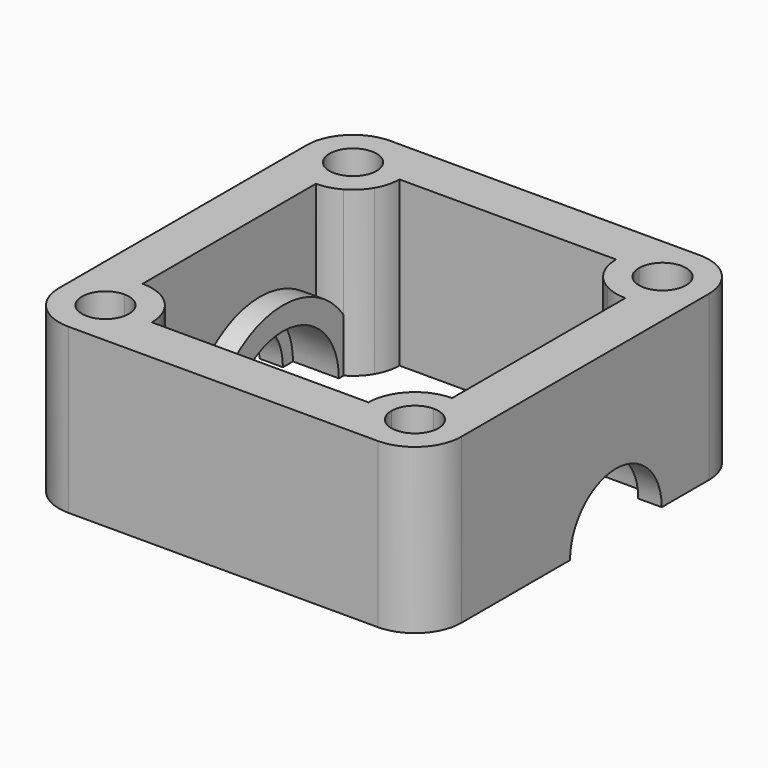
from build123d import *

# Parameters (mm, degrees)
F0_W     = 2
F0_H     = 6.1
F0_H_2   = 2
F0_W_2   = 2.05
F0_H_3   = 5
F1_DEPTH = 14.3
F2_ANGLE = 180
F3_ANGLE = 180


with BuildPart() as f1:
    # F0 (on Top) → F1 (new body)
    with BuildSketch(Plane.XY):
        with BuildLine():
            ThreePointArc((-13.5, 9.45), (-14.5342970466, 9.5842970466), (-15.5, 9.9782816694))
            Line((-15.5, 9.9782816694), (-15.5, 9.45))
            Line((-15.5, 9.45), (-13.5, 9.45))
        make_face()
        with BuildLine():
            ThreePointArc((-9.45, 13.5), (-10.6362175362, 16.3637824638), (-13.5, 17.55))
            ThreePointArc((-13.5, 17.55), (-16.3637824638, 16.3637824638), (-17.55, 13.5))
            ThreePointArc((-17.55, 13.5), (-17.0001785669, 11.4625383439), (-15.5, 9.9782816694))
            Line((-15.5, 9.9782816694), (-15.5, 11.45))
            Line((-15.5, 11.45), (-13.5, 11.45))
            ThreePointArc((-13.5, 11.45), (-14.9495689014, 14.9495689014), (-11.45, 13.5))
            Line((-11.45, 13.5), (-9.45, 13.5))
        make_face()
        with BuildLine():
            Line((-15.5, 11.45), (-15.5, 9.9782816694))
            ThreePointArc((-15.5, 9.9782816694), (-14.5342970466, 9.5842970466), (-13.5, 9.45))
            Line((-13.5, 9.45), (-13.5, 11.45))
            Line((-13.5, 11.45), (-15.5, 11.45))
        make_face()
        with BuildLine():
            ThreePointArc((-15.5, 9.9782816694), (-17.0001785669, 11.4625383439), (-17.55, 13.5))
            Line((-17.55, 13.5), (-17.55, 8.35))
            Line((-17.55, 8.35), (-15.5, 8.35))
            Line((-15.5, 8.35), (-15.5, 9.45))
            Line((-15.5, 9.45), (-15.5, 9.9782816694))
        make_face()
        with Locations((-14.5, 0.3)):
            Rectangle(F0_W, F0_H)
        with Locations((-14.5, -3.75)):
            Rectangle(F0_W, F0_H_2)
        with BuildLine():
            ThreePointArc((-13.5, -9.45), (-16.3637824638, -10.6362175362), (-17.55, -13.5))
            ThreePointArc((-17.55, -13.5), (-16.3637824638, -16.3637824638), (-13.5, -17.55))
            ThreePointArc((-13.5, -17.55), (-10.6362175362, -16.3637824638), (-9.45, -13.5))
            Line((-9.45, -13.5), (-11.45, -13.5))
            ThreePointArc((-11.45, -13.5), (-14.9495689014, -14.9495689014), (-13.5, -11.45))
            Line((-13.5, -11.45), (-13.5, -9.45))
        make_face()
        with BuildLine():
            Line((-13.5, -17.55), (13.5, -17.55))
            ThreePointArc((13.5, -17.55), (10.6362175362, -16.3637824638), (9.45, -13.5))
            Line((9.45, -13.5), (-9.45, -13.5))
            ThreePointArc((-9.45, -13.5), (-10.6362175362, -16.3637824638), (-13.5, -17.55))
        make_face()
        with BuildLine():
            ThreePointArc((-9.45, -13.5), (-10.6362175362, -10.6362175362), (-13.5, -9.45))
            Line((-13.5, -9.45), (-13.5, -11.45))
            ThreePointArc((-13.5, -11.45), (-12.0504310986, -12.0504310986), (-11.45, -13.5))
            Line((-11.45, -13.5), (-9.45, -13.5))
        make_face()
        with BuildLine():
            ThreePointArc((13.5, -17.55), (16.3637824638, -16.3637824638), (17.55, -13.5))
            ThreePointArc((17.55, -13.5), (16.3637824638, -10.6362175362), (13.5, -9.45))
            Line((13.5, -9.45), (13.5, -11.45))
            ThreePointArc((13.5, -11.45), (14.9495689014, -12.0504310986), (15.55, -13.5))
            ThreePointArc((15.55, -13.5), (13.5, -15.55), (11.45, -13.5))
            Line((11.45, -13.5), (9.45, -13.5))
            ThreePointArc((9.45, -13.5), (10.6362175362, -16.3637824638), (13.5, -17.55))
        make_face()
        with BuildLine():
            Line((13.5, -11.45), (13.5, -9.45))
            ThreePointArc((13.5, -9.45), (10.6362175362, -10.6362175362), (9.45, -13.5))
            Line((9.45, -13.5), (11.45, -13.5))
            ThreePointArc((11.45, -13.5), (12.0504310986, -12.0504310986), (13.5, -11.45))
        make_face()
        with BuildLine():
            Line((17.55, 8.35), (17.55, 13.5))
            ThreePointArc((17.55, 13.5), (17.0001785669, 11.4625383439), (15.5, 9.9782816694))
            Line((15.5, 9.9782816694), (15.5, 9.45))
            Line((15.5, 9.45), (15.5, 8.35))
            Line((15.5, 8.35), (17.55, 8.35))
        make_face()
        with Locations((14.5, -3.75)):
            Rectangle(F0_W, F0_H_2)
        with Locations((14.5, 0.3)):
            Rectangle(F0_W, F0_H)
        with BuildLine():
            Line((15.5, 9.45), (15.5, 9.9782816694))
            ThreePointArc((15.5, 9.9782816694), (14.5342970466, 9.5842970466), (13.5, 9.45))
            Line((13.5, 9.45), (15.5, 9.45))
        make_face()
        with BuildLine():
            ThreePointArc((13.5, 9.45), (14.5342970466, 9.5842970466), (15.5, 9.9782816694))
            Line((15.5, 9.9782816694), (15.5, 11.45))
            Line((15.5, 11.45), (13.5, 11.45))
            Line((13.5, 11.45), (13.5, 9.45))
        make_face()
        with BuildLine():
            ThreePointArc((11.5, 9.9782816694), (12.4657029534, 9.5842970466), (13.5, 9.45))
            Line((13.5, 9.45), (13.5, 11.45))
            Line((13.5, 11.45), (11.5, 11.45))
            Line((11.5, 11.45), (11.5, 9.9782816694))
        make_face()
        with BuildLine():
            Line((11.5, 11.45), (10.0071501607, 11.45))
            ThreePointArc((10.0071501607, 11.45), (10.6567028733, 10.6158776986), (11.5, 9.9782816694))
            Line((11.5, 9.9782816694), (11.5, 11.45))
        make_face()
        with BuildLine():
            Line((11.45, 13.5), (9.45, 13.5))
            ThreePointArc((9.45, 13.5), (9.5917688241, 12.4378187182), (10.0071501607, 11.45))
            Line((10.0071501607, 11.45), (11.5, 11.45))
            Line((11.5, 11.45), (13.5, 11.45))
            ThreePointArc((13.5, 11.45), (12.0504310986, 12.0504310986), (11.45, 13.5))
        make_face()
        with BuildLine():
            ThreePointArc((17.55, 13.5), (16.3637824638, 16.3637824638), (13.5, 17.55))
            ThreePointArc((13.5, 17.55), (10.6362175362, 16.3637824638), (9.45, 13.5))
            Line((9.45, 13.5), (11.45, 13.5))
            ThreePointArc((11.45, 13.5), (13.5, 15.55), (15.55, 13.5))
            ThreePointArc((15.55, 13.5), (14.9495689014, 12.0504310986), (13.5, 11.45))
            Line((13.5, 11.45), (15.5, 11.45))
            Line((15.5, 11.45), (15.5, 9.9782816694))
            ThreePointArc((15.5, 9.9782816694), (17.0001785669, 11.4625383439), (17.55, 13.5))
        make_face()
        with BuildLine():
            ThreePointArc((9.45, 13.5), (10.6362175362, 16.3637824638), (13.5, 17.55))
            Line((13.5, 17.55), (-13.5, 17.55))
            ThreePointArc((-13.5, 17.55), (-10.6362175362, 16.3637824638), (-9.45, 13.5))
            Line((-9.45, 13.5), (9.45, 13.5))
        make_face()
        with BuildLine():
            ThreePointArc((-10.0071501607, 11.45), (-9.5917688241, 12.4378187182), (-9.45, 13.5))
            Line((-9.45, 13.5), (-11.45, 13.5))
            ThreePointArc((-11.45, 13.5), (-12.0504310986, 12.0504310986), (-13.5, 11.45))
            Line((-13.5, 11.45), (-11.5, 11.45))
            Line((-11.5, 11.45), (-10.0071501607, 11.45))
        make_face()
        with BuildLine():
            Line((-11.5, 11.45), (-13.5, 11.45))
            Line((-13.5, 11.45), (-13.5, 9.45))
            ThreePointArc((-13.5, 9.45), (-12.4657029534, 9.5842970466), (-11.5, 9.9782816694))
            Line((-11.5, 9.9782816694), (-11.5, 11.45))
        make_face()
        with BuildLine():
            ThreePointArc((-11.5, 9.9782816694), (-10.6567028733, 10.6158776986), (-10.0071501607, 11.45))
            Line((-10.0071501607, 11.45), (-11.5, 11.45))
            Line((-11.5, 11.45), (-11.5, 9.9782816694))
        make_face()
        with BuildLine():
            Line((-15.5, 3.35), (-17.55, 3.35))
            Line((-17.55, 3.35), (-17.55, -13.5))
            ThreePointArc((-17.55, -13.5), (-16.3637824638, -10.6362175362), (-13.5, -9.45))
            Line((-13.5, -9.45), (-13.5, -4.75))
            Line((-13.5, -4.75), (-15.5, -4.75))
            Line((-15.5, -4.75), (-15.5, -2.75))
            Line((-15.5, -2.75), (-15.5, 3.35))
        make_face()
        with Locations((-16.525, 5.85)):
            Rectangle(F0_W_2, F0_H_3)
        Polygon((-15.5, 9.45), (-15.5, 8.35), (-15.5, 3.35), (-13.5, 3.35), (-13.5, 9.45), align=None)
        with Locations((16.525, 5.85)):
            Rectangle(F0_W_2, F0_H_3)
        Polygon((15.5, 3.35), (15.5, 8.35), (15.5, 9.45), (13.5, 9.45), (13.5, 3.35), align=None)
        with BuildLine():
            Line((17.55, -13.5), (17.55, 3.35))
            Line((17.55, 3.35), (15.5, 3.35))
            Line((15.5, 3.35), (15.5, -2.75))
            Line((15.5, -2.75), (15.5, -4.75))
            Line((15.5, -4.75), (13.5, -4.75))
            Line((13.5, -4.75), (13.5, -9.45))
            ThreePointArc((13.5, -9.45), (16.3637824638, -10.6362175362), (17.55, -13.5))
        make_face()
        with BuildLine():
            Line((-11.5, 11.45), (-13.5, 11.45))
            Line((-13.5, 11.45), (-13.5, 9.45))
            ThreePointArc((-13.5, 9.45), (-12.4657029534, 9.5842970466), (-11.5, 9.9782816694))
            Line((-11.5, 9.9782816694), (-11.5, 11.45))
        make_face()
        Polygon((-15.5, 9.45), (-15.5, 8.35), (-15.5, 3.35), (-13.5, 3.35), (-13.5, 9.45), align=None)
        Polygon((15.5, 3.35), (15.5, 8.35), (15.5, 9.45), (13.5, 9.45), (13.5, 3.35), align=None)
        with BuildLine():
            ThreePointArc((11.5, 9.9782816694), (12.4657029534, 9.5842970466), (13.5, 9.45))
            Line((13.5, 9.45), (13.5, 11.45))
            Line((13.5, 11.45), (11.5, 11.45))
            Line((11.5, 11.45), (11.5, 9.9782816694))
        make_face()
    extrude(amount=F1_DEPTH)

    # F0 (on Top) → F2 (revolve)
    with BuildSketch(Plane.XY):
        with Locations((-16.525, 5.85)):
            Rectangle(F0_W_2, F0_H_3)
        Polygon((-15.5, 9.45), (-15.5, 8.35), (-15.5, 3.35), (-13.5, 3.35), (-13.5, 9.45), align=None)
        with Locations((-12.5, 6.4)):
            Rectangle(F0_W, F0_H)
        with BuildLine():
            Line((-11.5, 11.45), (-13.5, 11.45))
            Line((-13.5, 11.45), (-13.5, 9.45))
            ThreePointArc((-13.5, 9.45), (-12.4657029534, 9.5842970466), (-11.5, 9.9782816694))
            Line((-11.5, 9.9782816694), (-11.5, 11.45))
        make_face()
        with BuildLine():
            Line((-15.5, 11.45), (-15.5, 9.9782816694))
            ThreePointArc((-15.5, 9.9782816694), (-14.5342970466, 9.5842970466), (-13.5, 9.45))
            Line((-13.5, 9.45), (-13.5, 11.45))
            Line((-13.5, 11.45), (-15.5, 11.45))
        make_face()
        with BuildLine():
            ThreePointArc((11.5, 9.9782816694), (12.4657029534, 9.5842970466), (13.5, 9.45))
            Line((13.5, 9.45), (13.5, 11.45))
            Line((13.5, 11.45), (11.5, 11.45))
            Line((11.5, 11.45), (11.5, 9.9782816694))
        make_face()
        with Locations((12.5, 6.4)):
            Rectangle(F0_W, F0_H)
        Polygon((15.5, 3.35), (15.5, 8.35), (15.5, 9.45), (13.5, 9.45), (13.5, 3.35), align=None)
        with BuildLine():
            ThreePointArc((13.5, 9.45), (14.5342970466, 9.5842970466), (15.5, 9.9782816694))
            Line((15.5, 9.9782816694), (15.5, 11.45))
            Line((15.5, 11.45), (13.5, 11.45))
            Line((13.5, 11.45), (13.5, 9.45))
        make_face()
        with Locations((16.525, 5.85)):
            Rectangle(F0_W_2, F0_H_3)
        with BuildLine():
            Line((-11.5, 9.45), (-11.5, 9.9782816694))
            ThreePointArc((-11.5, 9.9782816694), (-12.4657029534, 9.5842970466), (-13.5, 9.45))
            Line((-13.5, 9.45), (-11.5, 9.45))
        make_face()
        with BuildLine():
            ThreePointArc((-13.5, 9.45), (-14.5342970466, 9.5842970466), (-15.5, 9.9782816694))
            Line((-15.5, 9.9782816694), (-15.5, 9.45))
            Line((-15.5, 9.45), (-13.5, 9.45))
        make_face()
        with BuildLine():
            Line((15.5, 9.45), (15.5, 9.9782816694))
            ThreePointArc((15.5, 9.9782816694), (14.5342970466, 9.5842970466), (13.5, 9.45))
            Line((13.5, 9.45), (15.5, 9.45))
        make_face()
        with BuildLine():
            Line((11.5, 9.45), (13.5, 9.45))
            ThreePointArc((13.5, 9.45), (12.4657029534, 9.5842970466), (11.5, 9.9782816694))
            Line((11.5, 9.9782816694), (11.5, 9.45))
        make_face()
        Polygon((-15.5, 9.45), (-15.5, 8.35), (-15.5, 3.35), (-13.5, 3.35), (-13.5, 9.45), align=None)
        with Locations((-12.5, 6.4)):
            Rectangle(F0_W, F0_H)
        Polygon((15.5, 3.35), (15.5, 8.35), (15.5, 9.45), (13.5, 9.45), (13.5, 3.35), align=None)
        with Locations((12.5, 6.4)):
            Rectangle(F0_W, F0_H)
    revolve(axis=Axis((0, 3.35, 0), (1, 0, 0)), revolution_arc=F2_ANGLE)

    # F0 (on Top) → F3 (revolve, cut)
    with BuildSketch(Plane.XY):
        Polygon((15.5, 3.35), (15.5, 8.35), (15.5, 9.45), (13.5, 9.45), (13.5, 3.35), align=None)
        with Locations((16.525, 5.85)):
            Rectangle(F0_W_2, F0_H_3)
        with Locations((12.5, 6.4)):
            Rectangle(F0_W, F0_H)
        with Locations((-12.5, 6.4)):
            Rectangle(F0_W, F0_H)
        Polygon((-15.5, 9.45), (-15.5, 8.35), (-15.5, 3.35), (-13.5, 3.35), (-13.5, 9.45), align=None)
        with Locations((-16.525, 5.85)):
            Rectangle(F0_W_2, F0_H_3)
        Polygon((-15.5, 9.45), (-15.5, 8.35), (-15.5, 3.35), (-13.5, 3.35), (-13.5, 9.45), align=None)
        Polygon((15.5, 3.35), (15.5, 8.35), (15.5, 9.45), (13.5, 9.45), (13.5, 3.35), align=None)
        with Locations((12.5, 6.4)):
            Rectangle(F0_W, F0_H)
        with Locations((-12.5, 6.4)):
            Rectangle(F0_W, F0_H)
    revolve(axis=Axis((0, 3.35, 0), (1, 0, 0)), revolution_arc=F3_ANGLE, mode=Mode.SUBTRACT)


solid = f1.part
